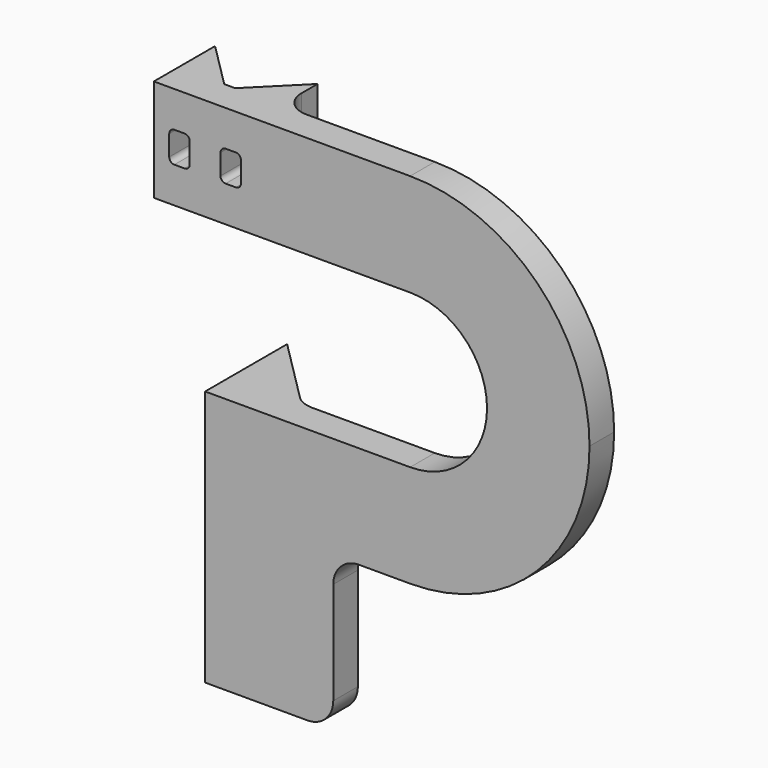
from build123d import *

# Parameters (mm, degrees)
F1_DEPTH = 6
F3_DEPTH = 50
F5_DEPTH = 20
F6_R     = 5
F7_DEPTH = 14.001
F8_R     = 1


with BuildPart() as f1:
    # F0 (on Front) → F1 (new body)
    with BuildSketch(Plane.XZ):
        with BuildLine():
            Line((-10, 15), (8.3772233983, 15))
            ThreePointArc((8.3772233983, 15), (21.2917130661, 29.5803989155), (40, 35))
            Line((40, 35), (-10, 35))
            Line((-10, 35), (-10, 15))
        make_face()
        Polygon((-7, 22), (-7, 25), (-7, 28), (-3, 28), (-3, 25), (-3, 22), align=None, mode=Mode.SUBTRACT)
        Polygon((7, 22), (3, 22), (3, 25), (3, 28), (7, 28), (7, 25), align=None, mode=Mode.SUBTRACT)
        with BuildLine():
            Line((40, -15), (25, -15))
            Line((25, -15), (25, -31.6227766017))
            ThreePointArc((25, -31.6227766017), (32.312255892, -34.1452572187), (40, -35))
            ThreePointArc((40, -35), (64.7487373415, -24.7487373415), (75, 0))
            ThreePointArc((75, 0), (64.7487373415, 24.7487373415), (40, 35))
            ThreePointArc((40, 35), (21.2917130661, 29.5803989155), (8.3772233983, 15))
            Line((8.3772233983, 15), (40, 15))
            ThreePointArc((40, 15), (50.6066017178, 10.6066017178), (55, 0))
            ThreePointArc((55, 0), (50.6066017178, -10.6066017178), (40, -15))
        make_face()
        with BuildLine():
            Line((25, -15), (8.3772233983, -15))
            ThreePointArc((8.3772233983, -15), (15.2512626585, -24.7487373415), (25, -31.6227766017))
            Line((25, -31.6227766017), (25, -15))
        make_face()
        with BuildLine():
            Line((8.3772233983, -15), (0, -15))
            Line((0, -15), (0, -65))
            Line((0, -65), (25, -65))
            Line((25, -65), (25, -35))
            Line((25, -35), (25, -31.6227766017))
            ThreePointArc((25, -31.6227766017), (15.2512626585, -24.7487373415), (8.3772233983, -15))
        make_face()
        with BuildLine():
            ThreePointArc((40, -35), (32.312255892, -34.1452572187), (25, -31.6227766017))
            Line((25, -31.6227766017), (25, -35))
            Line((25, -35), (40, -35))
        make_face()
    extrude(amount=F1_DEPTH)

    # F2 (on face) → F3 (join)
    with BuildSketch(Plane.XY.offset(-15)):
        Polygon((0, 0), (14, 0), (0, 14), align=None)
    extrude(amount=-F3_DEPTH)

    # F4 (on face) → F5 (join, through all)
    with BuildSketch(Plane.XY.offset(35)):
        Polygon((-10, 0), (-1.0710678119, 0), (-10, 8.9289321881), align=None)
        Polygon((1.0710678119, 0), (10, 0), (10, 8.9289321881), align=None)
    extrude(amount=-F5_DEPTH)

    # F6
    f6_edges = [f1.edges().sort_by_distance(p)[0] for p in [
        (25, -3, -35),
        (25, -3, -65),
        (10, 0, 25),
        (14, 0, -40),
    ]]
    fillet(f6_edges, radius=F6_R)

    # F0 (on Front) → F7 (cut, through all)
    with BuildSketch(Plane.XZ):
        Polygon((-7, 28), (-7, 25), (-7, 22), (-3, 22), (-3, 25), (-3, 28), align=None)
        Polygon((3, 25), (3, 22), (7, 22), (7, 25), (7, 28), (3, 28), align=None)
    extrude(amount=-F7_DEPTH, mode=Mode.SUBTRACT)

    # F8
    f8_edges = [f1.edges().sort_by_distance(p)[0] for p in [
        (7, -0.035534, 22),
        (-3, -2.035534, 22),
        (7, -0.035534, 28),
        (-3, -2.035534, 28),
        (-7, -0.035534, 28),
        (3, -2.035534, 28),
        (-7, -0.035534, 22),
        (3, -2.035534, 22),
    ]]
    fillet(f8_edges, radius=F8_R)


solid = f1.part
